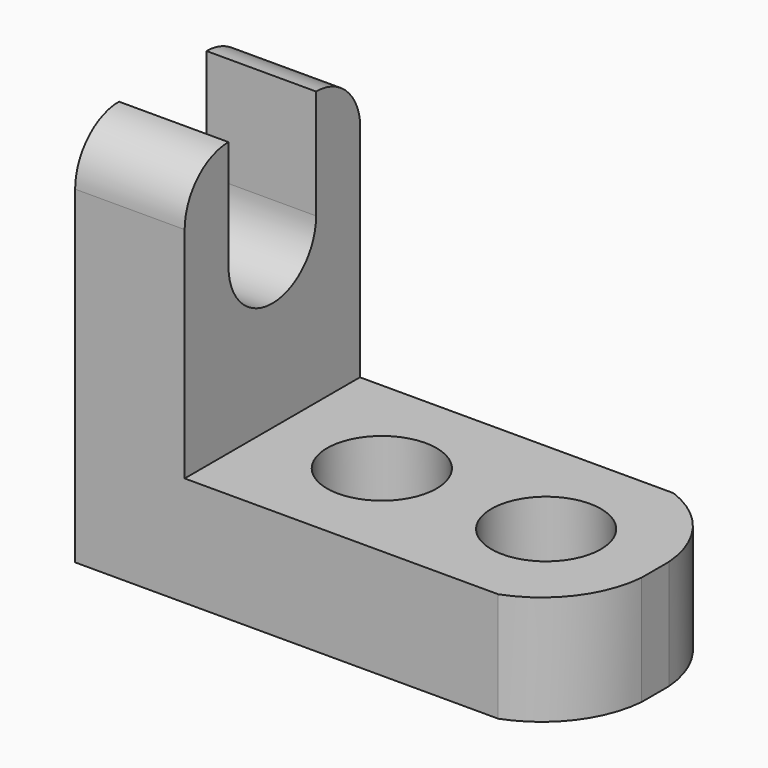
from build123d import *

# Parameters (mm, degrees)
F1_DEPTH = 25.4
F3_DEPTH = 25.4
F5_DEPTH = 25.4
F6_R     = 6.35
F7_DEPTH = 25.4
F9_DEPTH = 25.4


with BuildPart() as f1:
    # F0 (on Front) → F1 (new body)
    with BuildSketch(Plane.XZ):
        Polygon((0, 44.45), (0, 0), (57.15, 0), (57.15, 12.7), (12.7, 12.7), (12.7, 44.45), align=None)
    extrude(amount=F1_DEPTH)

    # F2 (on face) → F3 (cut)
    with BuildSketch(Plane.YZ.offset(12.7)):
        with BuildLine():
            ThreePointArc((-19.05, 31.75), (-12.7, 25.4), (-6.35, 31.75))
            ThreePointArc((-6.35, 31.75), (-12.7, 38.1), (-19.05, 31.75))
        make_face()
        with BuildLine():
            ThreePointArc((-19.05, 31.75), (-12.7, 38.1), (-6.35, 31.75))
            Line((-6.35, 31.75), (-6.35, 44.45))
            Line((-6.35, 44.45), (-19.05, 44.45))
            Line((-19.05, 44.45), (-19.05, 31.75))
        make_face()
    extrude(amount=-F3_DEPTH, mode=Mode.SUBTRACT)

    # F4 (on face) → F5 (cut)
    with BuildSketch(Plane.YZ.offset(12.7)):
        with BuildLine():
            Line((-25.4, 44.45), (-25.4, 38.1))
            ThreePointArc((-25.4, 38.1), (-23.540128, 42.590128), (-19.05, 44.45))
            Line((-19.05, 44.45), (-25.4, 44.45))
        make_face()
        with BuildLine():
            Line((0, 44.45), (-6.35, 44.45))
            ThreePointArc((-6.35, 44.45), (-2.156385, 42.890804), (0, 38.970664))
            Line((0, 38.970664), (0, 44.45))
        make_face()
    extrude(amount=-F5_DEPTH, mode=Mode.SUBTRACT)

    # F6 (on face) → F7 (cut)
    with BuildSketch(Plane.XY.offset(12.7)):
        with Locations((44.45, -12.7)):
            Circle(F6_R)
        with Locations((25.4, -12.7)):
            Circle(F6_R)
    extrude(amount=-F7_DEPTH, mode=Mode.SUBTRACT)

    # F8 (on face) → F9 (cut)
    with BuildSketch(Plane.XY.offset(12.7)):
        with BuildLine():
            Line((57.15, -25.4), (57.15, -14.733049))
            ThreePointArc((57.15, -14.733049), (54.656516, -21.24776), (49.051356, -25.4))
            Line((49.051356, -25.4), (57.15, -25.4))
        make_face()
        with BuildLine():
            ThreePointArc((57.15, -14.733049), (57.191553, -13.716524), (57.15, -12.7))
            Line((57.15, -12.7), (57.15, -14.733049))
        make_face()
        with BuildLine():
            ThreePointArc((57.15, -12.7), (57.186039, -11.749483), (57.15, -10.798966))
            Line((57.15, -10.798966), (57.15, -12.7))
        make_face()
        with BuildLine():
            Line((57.15, 0), (49.051356, 0))
            ThreePointArc((49.051356, 0), (54.675771, -4.218247), (57.15, -10.798966))
            Line((57.15, -10.798966), (57.15, 0))
        make_face()
    extrude(amount=-F9_DEPTH, mode=Mode.SUBTRACT)


solid = f1.part
